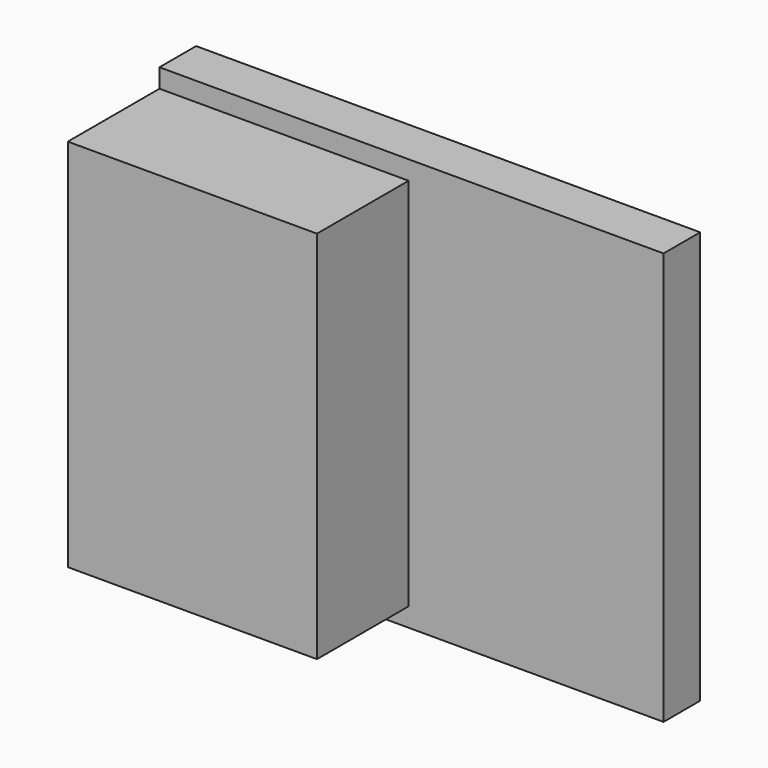
from build123d import *

# Parameters (mm, degrees)
F0_W     = 10.874254629
F0_H     = 16.3510471284
F1_DEPTH = 2
F2_DEPTH = 7
F3_W     = 4.0485225618
F3_H     = 6.7925304174
F3_W_2   = 3.7012062967
F3_H_2   = 3.8396660239
F4_DEPTH = 3


with BuildPart() as f1:
    # F0 (on Front) → F1 (new body)
    with BuildSketch(Plane.XZ):
        Polygon((-19.8561436236, -13.0616642237), (-41.8561436236, -13.0616642237), (-41.8561436236, -13.8861406595), (-30.9818889946, -13.8861406595), (-30.9818889946, -30.2371877879), (-41.8561436236, -30.2371877879), (-41.8561436236, -31.0616642237), (-19.8561436236, -31.0616642237), align=None)
        with Locations((-36.4190163091, -22.0616642237)):
            Rectangle(F0_W, F0_H)
    extrude(amount=F1_DEPTH)

    # F0 (on Front) → F2 (join)
    with BuildSketch(Plane.XZ):
        with Locations((-36.4190163091, -22.0616642237)):
            Rectangle(F0_W, F0_H)
    extrude(amount=F2_DEPTH)

    # F3 (on face) → F4 (join)
    with BuildSketch(Plane(origin=(0, 0, 0), x_dir=(-1, 0, 0), z_dir=(0, 1, 0))):
        with Locations((39.2332170159, -21.982813254)):
            Rectangle(F3_W, F3_H)
        with Locations((25.5681611598, -22.7285558358)):
            Rectangle(F3_W_2, F3_H_2)
    extrude(amount=F4_DEPTH)


solid = f1.part
